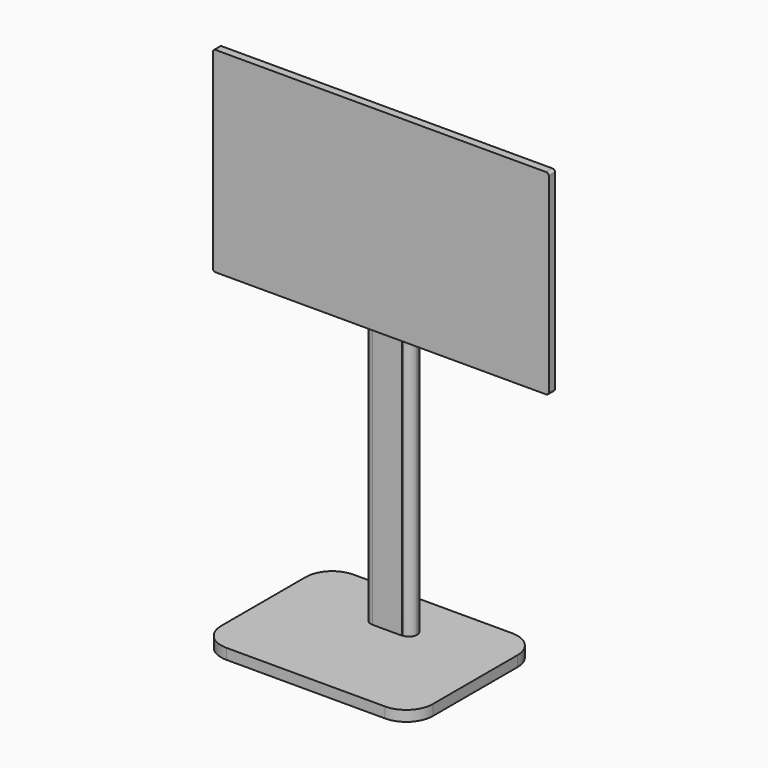
from build123d import *

# Parameters (mm, degrees)
F1_DEPTH = 10.16
F3_DEPTH = 381
F5_DEPTH = 7.62


with BuildPart() as f1:
    # F0 (on Top) → F1 (new body)
    with BuildSketch(Plane.XY):
        with BuildLine():
            Line((-76.2, -76.2), (76.2, -76.2))
            ThreePointArc((76.2, -76.2), (94.1605122421, -68.7605122421), (101.6, -50.8))
            Line((101.6, -50.8), (101.6, 50.8))
            ThreePointArc((101.6, 50.8), (94.1605122421, 68.7605122421), (76.2, 76.2))
            Line((76.2, 76.2), (-76.2, 76.2))
            ThreePointArc((-76.2, 76.2), (-94.1605122421, 68.7605122421), (-101.6, 50.8))
            Line((-101.6, 50.8), (-101.6, -50.8))
            ThreePointArc((-101.6, -50.8), (-94.1605122421, -68.7605122421), (-76.2, -76.2))
        make_face()
    extrude(amount=-F1_DEPTH)

    # F2 (on face) → F3 (join)
    with BuildSketch(Plane.XY):
        with BuildLine():
            Line((-14.3209369853, 21.4582365006), (14.3209369853, 21.4582365006))
            Line((14.3209369853, 21.4582365006), (14.3209369853, 21.8244272492))
            ThreePointArc((14.3209369853, 21.8244272492), (6.4622604496, 29.6831037849), (14.3209369853, 37.5417803207))
            Line((14.3209369853, 37.5417803207), (14.3209369853, 37.9079710692))
            Line((14.3209369853, 37.9079710692), (-14.3209369853, 37.9079710692))
            Line((-14.3209369853, 37.9079710692), (-14.3209369853, 37.7833950656))
            ThreePointArc((-14.3209369853, 37.7833950656), (-8.5931660912, 35.410874679), (-6.2206457047, 29.6831037849))
            ThreePointArc((-6.2206457047, 29.6831037849), (-8.5931660912, 23.9553328908), (-14.3209369853, 21.5828125043))
            Line((-14.3209369853, 21.5828125043), (-14.3209369853, 21.4582365006))
        make_face()
        with BuildLine():
            ThreePointArc((14.3209369853, 37.5417803207), (6.4622604496, 29.6831037849), (14.3209369853, 21.8244272492))
            Line((14.3209369853, 21.8244272492), (14.3209369853, 37.5417803207))
        make_face()
        with BuildLine():
            Line((14.3209369853, 37.5417803207), (14.3209369853, 21.8244272492))
            ThreePointArc((14.3209369853, 21.8244272492), (19.8778604549, 24.1261803153), (22.1796135211, 29.6831037849))
            ThreePointArc((22.1796135211, 29.6831037849), (19.8778604549, 35.2400272545), (14.3209369853, 37.5417803207))
        make_face()
        with BuildLine():
            ThreePointArc((-14.3209369853, 37.7833950656), (-22.4212282659, 29.6831037849), (-14.3209369853, 21.5828125043))
            Line((-14.3209369853, 21.5828125043), (-14.3209369853, 37.7833950656))
        make_face()
        with BuildLine():
            Line((-14.3209369853, 37.7833950656), (-14.3209369853, 21.5828125043))
            ThreePointArc((-14.3209369853, 21.5828125043), (-8.5931660912, 23.9553328908), (-6.2206457047, 29.6831037849))
            ThreePointArc((-6.2206457047, 29.6831037849), (-8.5931660912, 35.410874679), (-14.3209369853, 37.7833950656))
        make_face()
    extrude(amount=F3_DEPTH)

    # F4 (on face) → F5 (join)
    with BuildSketch(Plane.XZ.offset(-21.4582365006)):
        with BuildLine():
            Line((-158.75, 254), (158.75, 254))
            ThreePointArc((158.75, 254), (160.5460512242, 254.7439487758), (161.29, 256.54))
            Line((161.29, 256.54), (161.29, 439.42))
            ThreePointArc((161.29, 439.42), (160.5460512242, 441.2160512242), (158.75, 441.96))
            Line((158.75, 441.96), (-158.75, 441.96))
            ThreePointArc((-158.75, 441.96), (-160.5460512242, 441.2160512242), (-161.29, 439.42))
            Line((-161.29, 439.42), (-161.29, 256.54))
            ThreePointArc((-161.29, 256.54), (-160.5460512242, 254.7439487758), (-158.75, 254))
        make_face()
    extrude(amount=F5_DEPTH)


solid = f1.part
